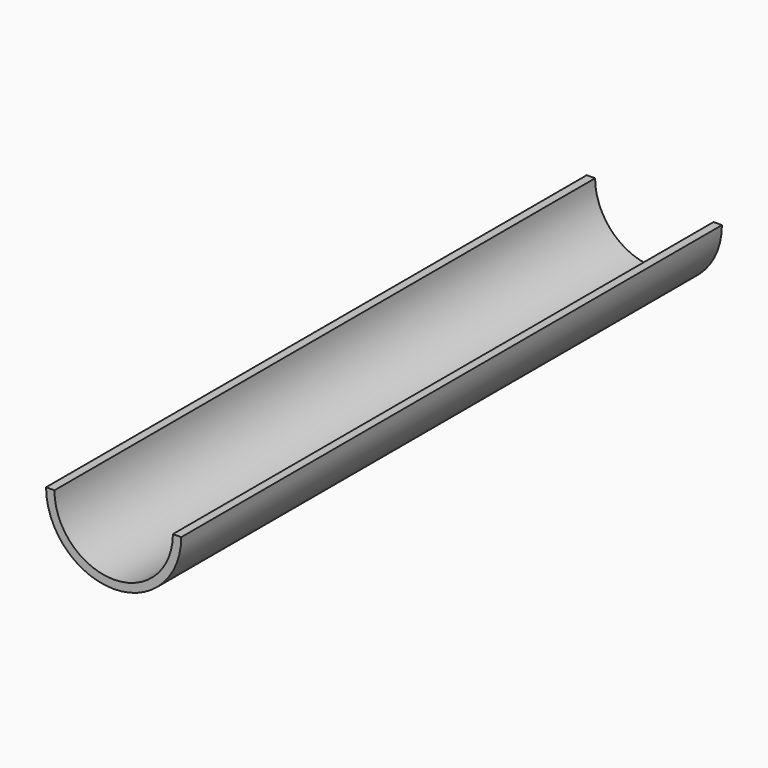
from build123d import *

# Parameters (mm, degrees)
F1_DEPTH = 127
F2_R     = 11.1125
F3_DEPTH = 127
F4_R     = 11.132084
F5_DEPTH = 409.90812


with BuildPart() as f1:
    # F0 (on Front) → F1 (new body)
    with BuildSketch(Plane.XZ):
        with BuildLine():
            Line((12.7, 0), (-12.7, 0))
            ThreePointArc((-12.7, 0), (0, -12.7), (12.7, 0))
        make_face()
    extrude(amount=F1_DEPTH)

    # F2 (on Front) → F3 (join)
    with BuildSketch(Plane.XZ):
        Circle(F2_R)
    extrude(amount=F3_DEPTH)

    # F4 (on face) → F5 (cut)
    with BuildSketch(Plane(origin=(0, 0, 0), x_dir=(-1, 0, 0), z_dir=(0, 1, 0))):
        Circle(F4_R)
    extrude(amount=-F5_DEPTH, mode=Mode.SUBTRACT)


solid = f1.part
